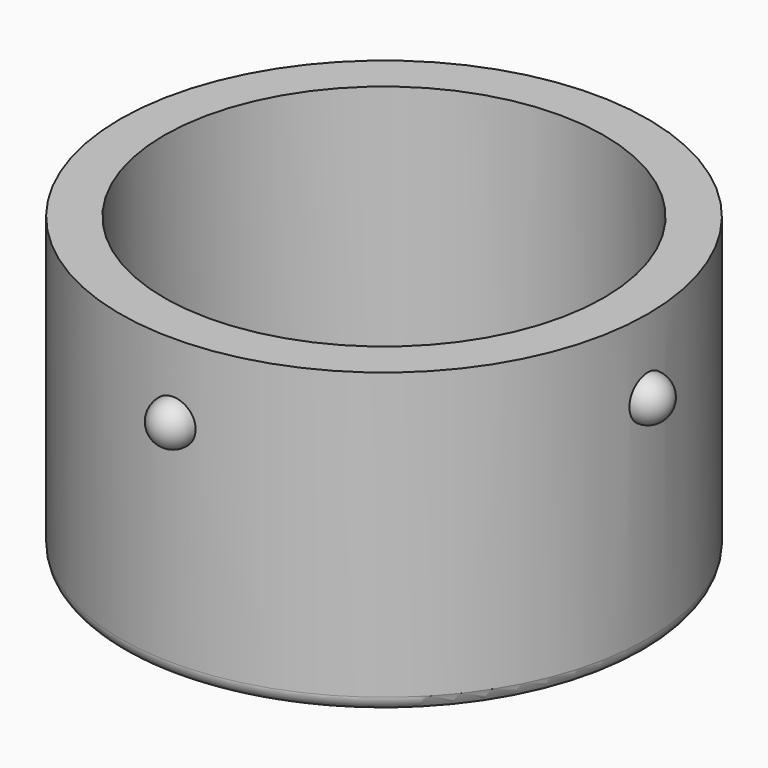
from build123d import *

# Parameters (mm, degrees)
F0_R     = 36
F1_DEPTH = 41
F2_R     = 30
F3_DEPTH = 35
F7_COUNT = 4
F8_R     = 2


with BuildPart() as f1:
    # F0 (on Top) → F1 (new body)
    with BuildSketch(Plane.XY):
        Circle(F0_R)
    extrude(amount=F1_DEPTH)

    # F2 (on face) → F3 (cut)
    with BuildSketch(Plane.XY.offset(41)):
        Circle(F2_R)
    extrude(amount=-F3_DEPTH, mode=Mode.SUBTRACT)

    # F5 (on offset) → F6 (revolve)
    with BuildSketch(Plane.YZ.offset(36)):
        with BuildLine():
            Line((0, 31), (0, 28))
            ThreePointArc((0, 28), (3, 31), (0, 34))
            Line((0, 34), (0, 31))
        make_face()
    revolve(axis=Axis((36, 0, 29.6323467046), (0, 0, -1)))

    # F7: F1 ×4 about axis
    f7_axis = Axis((0, 0, 41), (0, 0, -1))


with BuildPart() as f1_1:
    add(f1.part)
    for i in range(1, F7_COUNT):
        add(f1.part.rotate(f7_axis, i * 360 / F7_COUNT))

    # F8
    f8_edges = [f1_1.edges().sort_by_distance(p)[0] for p in [
        (-36, 0, 0),
    ]]
    fillet(f8_edges, radius=F8_R)


solid = f1_1.part
